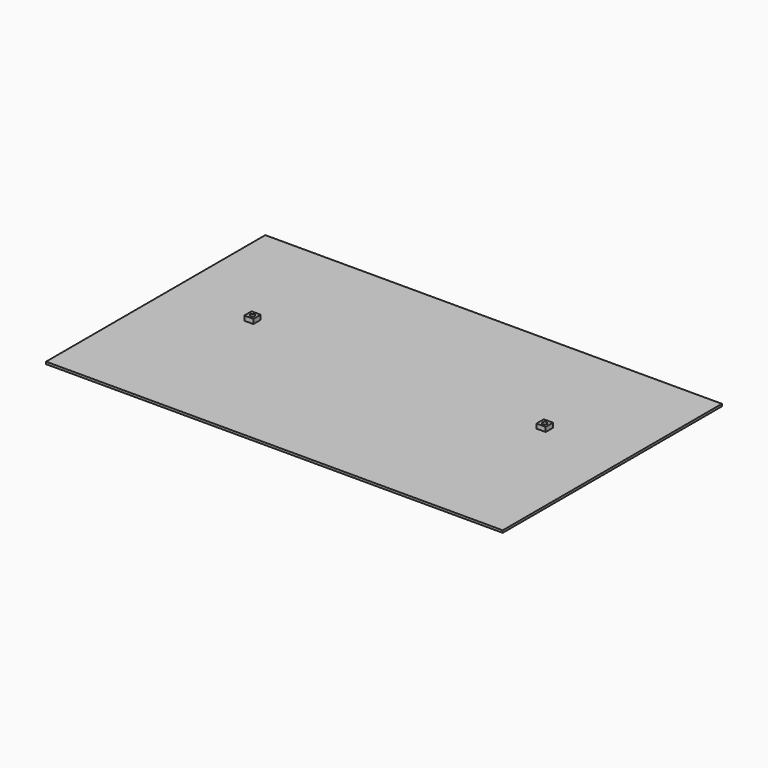
from build123d import *

# Parameters (mm, degrees)
F0_W     = 5000
F0_H     = 3000
F1_DEPTH = 25
F3_W     = 100
F3_H     = 100
F3_R     = 25
F4_DEPTH = 50


with BuildPart() as f1:
    # F0 (on Top) → F1 (new body)
    with BuildSketch(Plane.XY):
        with Locations((2500, 1500)):
            Rectangle(F0_W, F0_H)
    extrude(amount=F1_DEPTH)

    # F3 (on face) → F4 (join)
    with BuildSketch(Plane.XY.offset(25)):
        with Locations((4100, 1700)):
            Rectangle(F3_W, F3_H)
        with Locations((4100, 1700)):
            Circle(F3_R, mode=Mode.SUBTRACT)
        with Locations((900, 1700)):
            Rectangle(F3_W, F3_H)
        with Locations((900, 1700)):
            Circle(F3_R, mode=Mode.SUBTRACT)
    extrude(amount=F4_DEPTH)


solid = f1.part
